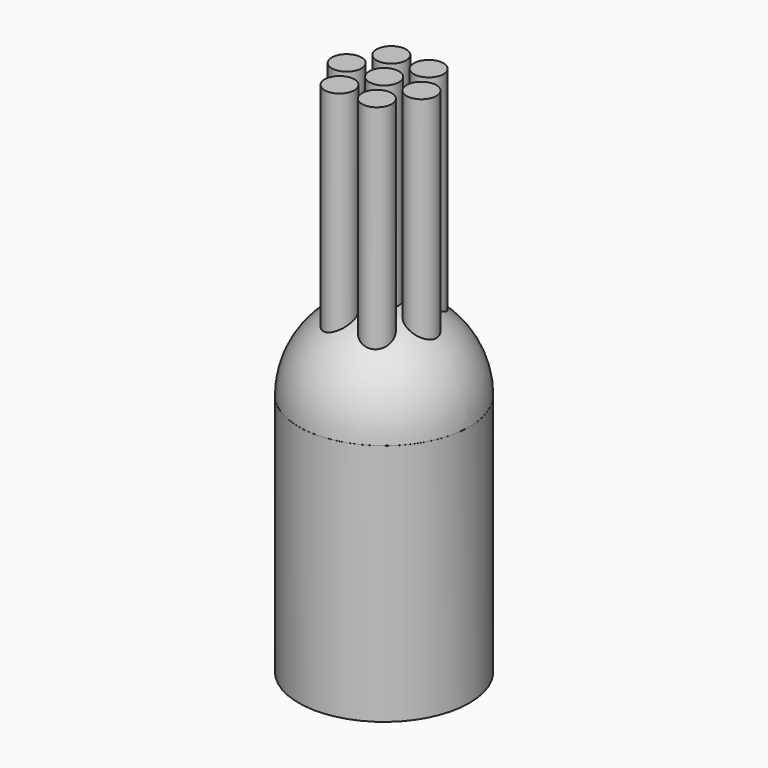
from build123d import *

# Parameters (mm, degrees)
CYLINDER062_R     = 0.79375
CYLINDER062_DEPTH = 28
ARRAY003_COUNT    = 6
CYLINDER063_R     = 0.79375
CYLINDER063_DEPTH = 28
CYLINDER061_R     = 4.564063
CYLINDER061_DEPTH = 13


with BuildPart() as array003:
    # Cylinder062 → Cylinder062 (new body)
    with BuildSketch(Plane(origin=(2, 0, 0), x_dir=(1, 0, 0), z_dir=(0, 0, 1))):
        Circle(CYLINDER062_R)
    extrude(amount=CYLINDER062_DEPTH)

    # Array003: Array003 ×6 about axis
    array003_axis = Axis((0, 0, 0), (0, 0, 1))


with BuildPart() as array003_1:
    add(array003.part)
    for i in range(1, ARRAY003_COUNT):
        add(array003.part.rotate(array003_axis, i * 360 / ARRAY003_COUNT))


with BuildPart() as obj1:
    # Cylinder063 → Cylinder063 (new body)
    with BuildSketch(Plane.XY):
        Circle(CYLINDER063_R)
    extrude(amount=CYLINDER063_DEPTH)

    # Fusion026: union Array003
    add(array003_1.part)


with BuildPart() as compression002:
    # Sphere002 → Sphere002 (revolve)
    with BuildSketch(Plane(origin=(0, 0, 13), x_dir=(1, 0, 0), z_dir=(0, -1, 0))):
        with BuildLine():
            ThreePointArc((0, -4.56), (4.56, 0), (0, 4.56))
            Line((0, 4.56), (0, -4.56))
        make_face()
    revolve(axis=Axis((0, 0, 13), (0, 0, 1)))


with BuildPart() as obj2:
    # Cylinder061 → Cylinder061 (new body)
    with BuildSketch(Plane.XY):
        Circle(CYLINDER061_R)
    extrude(amount=CYLINDER061_DEPTH)

    # Fusion027: union obj1, Compression002
    add(obj1.part)
    add(compression002.part)


with BuildPart() as obj2_1:
    # Fusion027 placement: moved
    add(obj2.part.moved(Location((136.75, 199.75, 0))))


solid = obj2_1.part
